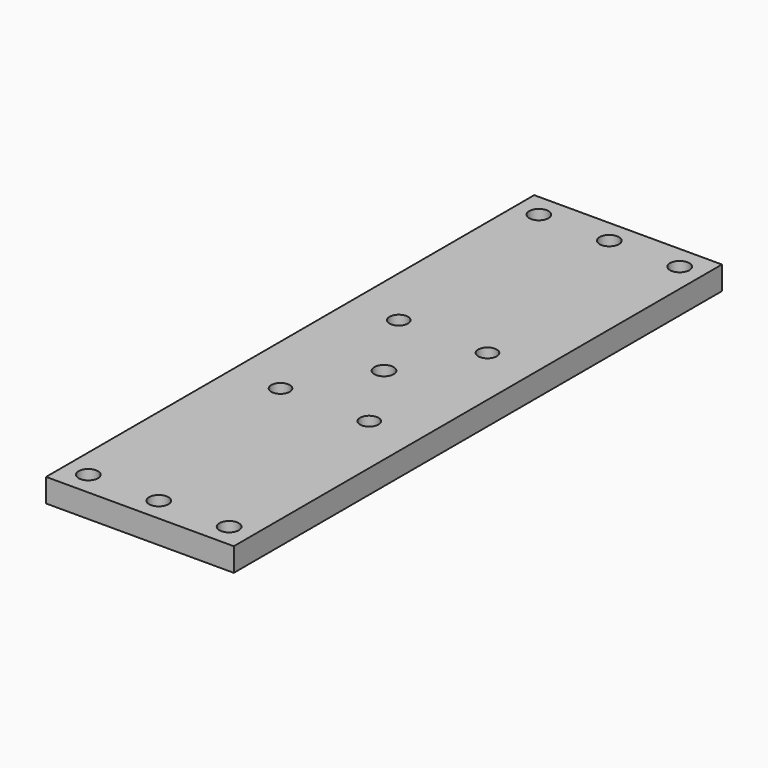
from build123d import *

# Parameters (mm, degrees)
F0_W     = 50.8
F0_H     = 6.35
F1_DEPTH = 165.1
F2_R     = 2.6162
F2_R_2   = 2.5019
F3_DEPTH = 6.351


with BuildPart() as f1:
    # F0 (on Front) → F1 (new body)
    with BuildSketch(Plane.XZ):
        Rectangle(F0_W, F0_H)
    extrude(amount=F1_DEPTH)

    # F2 (on face) → F3 (cut, through all)
    with BuildSketch(Plane.XY.offset(3.175)):
        with Locations((0, -158.75)):
            Circle(F2_R)
        with Locations((0, -6.35)):
            Circle(F2_R)
        with Locations((-12.0015, -102.5525)):
            Circle(F2_R_2)
        with Locations((12.0015, -102.5525)):
            Circle(F2_R_2)
        with Locations((12.0015, -62.5475)):
            Circle(F2_R_2)
        with Locations((-12.0015, -62.5475)):
            Circle(F2_R_2)
        with Locations((0, -82.55)):
            Circle(F2_R)
        with Locations((-19.05, -158.75)):
            Circle(F2_R)
        with Locations((19.05, -158.75)):
            Circle(F2_R)
        with Locations((-19.05, -6.35)):
            Circle(F2_R)
        with Locations((19.05, -6.35)):
            Circle(F2_R)
    extrude(amount=-F3_DEPTH, mode=Mode.SUBTRACT)


solid = f1.part
